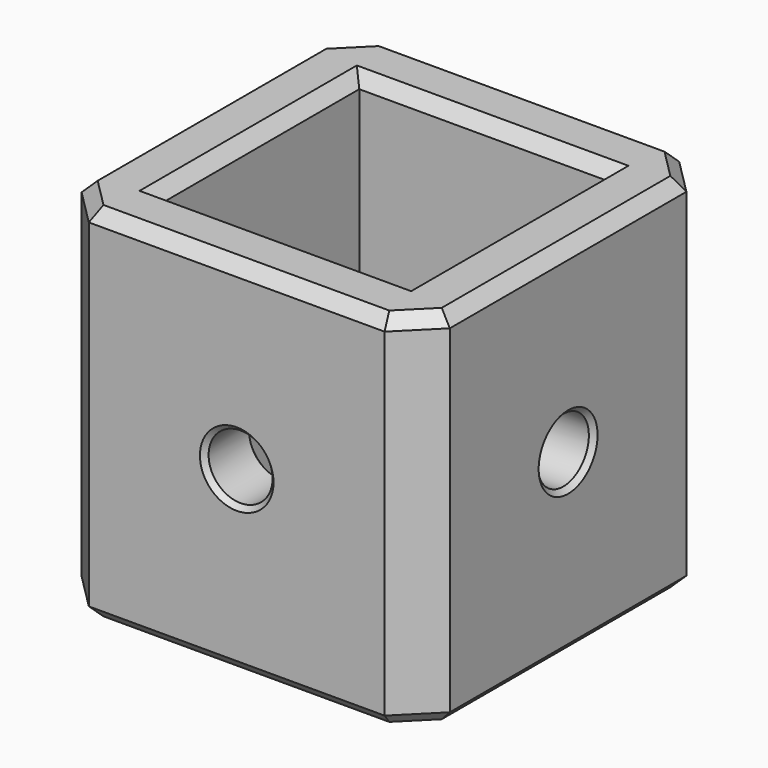
from build123d import *

# Parameters (mm, degrees)
SKETCH005_W        = 30.5
SKETCH005_H        = 30.5
SKETCH005_W_2      = 20.5
SKETCH005_H_2      = 20.5
PAD003_DEPTH       = 30
SKETCH006_R        = 2.65
POCKET003_DEPTH    = 135.581921
POLARPATTERN_COUNT = 4
CHAMFER004_SIZE    = 3
CHAMFER005_SIZE    = 1
CHAMFER006_SIZE    = 0.4


with BuildPart() as part:
    # Sketch005 → Pad003 (new body)
    with BuildSketch(Plane.XY):
        Rectangle(SKETCH005_W, SKETCH005_H)
        Rectangle(SKETCH005_W_2, SKETCH005_H_2, mode=Mode.SUBTRACT)
    extrude(amount=PAD003_DEPTH)

    # Sketch006 (on Face3 of Pad003) → Pocket003 (cut, through all)
    with BuildSketch(Plane.XZ.offset(15.25)):
        with Locations((0, 15)):
            Circle(SKETCH006_R)
    pocket003 = extrude(amount=-POCKET003_DEPTH, mode=Mode.SUBTRACT)

    # PolarPattern: Pocket003 ×4 about axis
    polarpattern_axis = Axis((0, 0, 0), (0, 0, 1))
    for i in range(1, POLARPATTERN_COUNT):
        add(pocket003.rotate(polarpattern_axis, i * 360 / POLARPATTERN_COUNT), mode=Mode.SUBTRACT)

    # Chamfer004
    chamfer004_edges = [part.edges().sort_by_distance(p)[0] for p in [
        (-15.25, 15.25, 15),
        (-15.25, -15.25, 15),
        (15.25, -15.25, 15),
        (15.25, 15.25, 15),
    ]]
    chamfer(chamfer004_edges, length=CHAMFER004_SIZE)

    # Chamfer005
    chamfer005_edges = [part.edges().sort_by_distance(p)[0] for p in [
        (0, 15.25, 0),
        (-13.75, 13.75, 0),
        (13.75, 13.75, 0),
        (-15.25, 0, 0),
        (15.25, 0, 0),
        (-13.75, -13.75, 0),
        (13.75, -13.75, 0),
        (0, -15.25, 0),
        (0, 10.25, 0),
        (10.25, 0, 0),
        (0, -10.25, 0),
        (-10.25, 0, 0),
        (0, 15.25, 30),
        (-13.75, 13.75, 30),
        (13.75, 13.75, 30),
        (-15.25, 0, 30),
        (15.25, 0, 30),
        (-13.75, -13.75, 30),
        (13.75, -13.75, 30),
        (0, -15.25, 30),
        (0, 10.25, 30),
        (10.25, 0, 30),
        (0, -10.25, 30),
        (-10.25, 0, 30),
    ]]
    chamfer(chamfer005_edges, length=CHAMFER005_SIZE)

    # Chamfer006
    chamfer006_edges = [part.edges().sort_by_distance(p)[0] for p in [
        (0, -15.25, 17.65),
        (0, -10.25, 12.35),
        (10.25, 0, 17.65),
        (15.25, 0, 17.65),
        (0, 10.25, 17.65),
        (0, 15.25, 17.65),
        (-15.25, 0, 12.35),
        (-10.25, 0, 12.35),
    ]]
    chamfer(chamfer006_edges, length=CHAMFER006_SIZE)


solid = part.part
